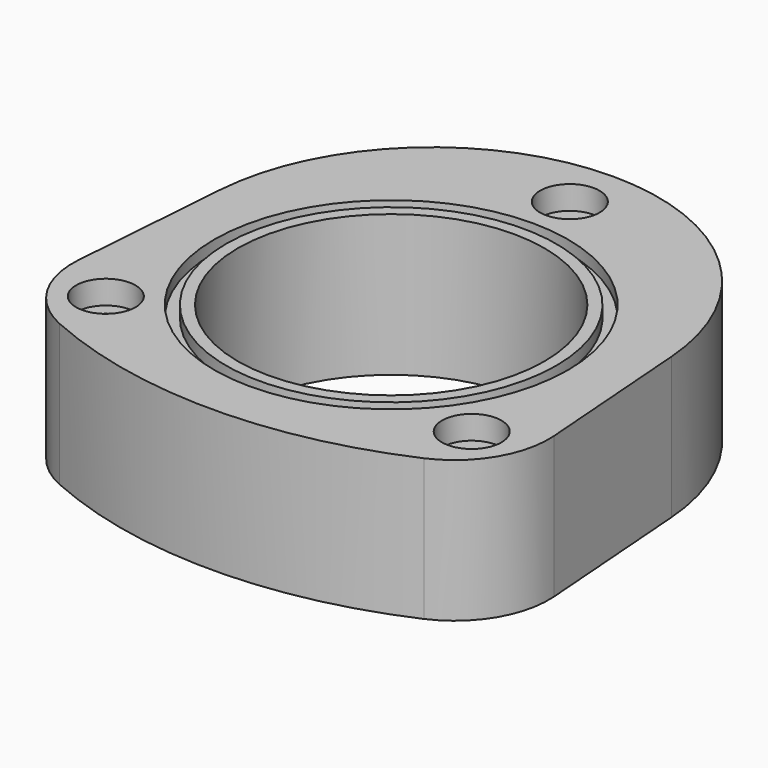
from build123d import *

# Parameters (mm, degrees)
F0_R     = 4.2545
F0_R_2   = 41.275
F1_DEPTH = 38.1
F2_R     = 8.001
F2_R_2   = 4.2545
F3_DEPTH = 6.35
F2_R_3   = 47.625
F2_R_4   = 44.45
F4_DEPTH = 3.175


with BuildPart() as f1:
    # F0 (on Top) → F1 (new body)
    with BuildSketch(Plane.XY):
        with BuildLine():
            Line((64.06365, -25.199729), (60.788761, 18.400254))
            ThreePointArc((60.788761, 18.400254), (0, 74.794278), (-60.788761, 18.400254))
            Line((-60.788761, 18.400254), (-64.06365, -25.199729))
            ThreePointArc((-64.06365, -25.199729), (-60.533997, -40.139233), (-49.042173, -50.316916))
            ThreePointArc((-49.042173, -50.316916), (0, -60.714722), (49.042173, -50.316916))
            ThreePointArc((49.042173, -50.316916), (60.533997, -40.139233), (64.06365, -25.199729))
        make_face()
        with Locations((-49.276, -34.477577)):
            Circle(F0_R, mode=Mode.SUBTRACT)
        with Locations((49.276, -34.477577)):
            Circle(F0_R, mode=Mode.SUBTRACT)
        Circle(F0_R_2, mode=Mode.SUBTRACT)
        with Locations((0, 60.140065)):
            Circle(F0_R, mode=Mode.SUBTRACT)
    extrude(amount=F1_DEPTH)

    # F2 (on face) → F3 (cut)
    with BuildSketch(Plane.XY.offset(38.1)):
        with Locations((0, 60.140065)):
            Circle(F2_R)
        with Locations((0, 60.140065)):
            Circle(F2_R_2, mode=Mode.SUBTRACT)
        with Locations((-49.276, -34.477577)):
            Circle(F2_R)
        with Locations((-49.276, -34.477577)):
            Circle(F2_R_2, mode=Mode.SUBTRACT)
        with Locations((49.276, -34.477577)):
            Circle(F2_R)
        with Locations((49.276, -34.477577)):
            Circle(F2_R_2, mode=Mode.SUBTRACT)
    extrude(amount=-F3_DEPTH, mode=Mode.SUBTRACT)

    # F2 (on face) → F4 (cut)
    with BuildSketch(Plane.XY.offset(38.1)):
        Circle(F2_R_3)
        Circle(F2_R_4, mode=Mode.SUBTRACT)
    extrude(amount=-F4_DEPTH, mode=Mode.SUBTRACT)


solid = f1.part
